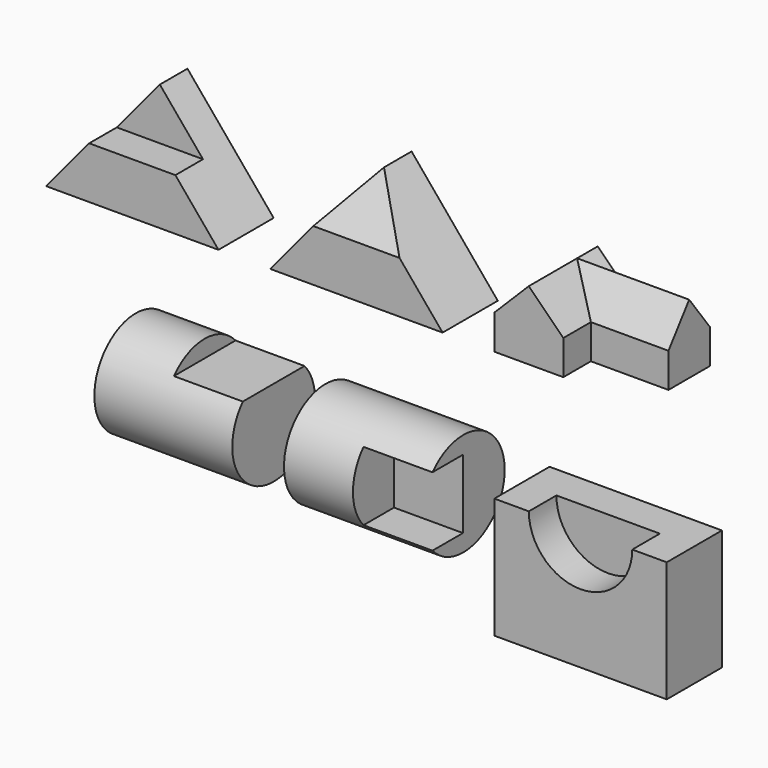
from build123d import *

# Parameters (mm, degrees)
F1_DEPTH  = 50.8
F2_DEPTH  = 50.8
F4_DEPTH  = 25.4
F6_DEPTH  = 101.6
F7_DEPTH  = 50.8
F8_DEPTH  = 25.4
F12_DEPTH = 63.5
F14_DEPTH = 127
F18_DEPTH = 165.1
F19_R     = 76.2
F20_DEPTH = 203.2
F22_DEPTH = 101.6
F24_R     = 76.2
F25_DEPTH = 203.2
F27_DEPTH = 101.6
F28_W     = 254
F28_H     = 177.8
F29_DEPTH = 101.6
F31_DEPTH = 50.8


with BuildPart() as f1:
    # F0 (on Front) → F1 (new body)
    with BuildSketch(Plane.XZ):
        Polygon((-254, 0), (0, 0), (-63.5, 76.2), (-127, 76.2), (-190.5, 76.2), align=None)
    extrude(amount=F1_DEPTH)

    # F0 (on Front) → F2 (join)
    with BuildSketch(Plane.XZ):
        Polygon((-254, 0), (0, 0), (-63.5, 76.2), (-127, 76.2), (-190.5, 76.2), align=None)
        Polygon((-127, 76.2), (-63.5, 76.2), (-127, 152.4), (-190.5, 76.2), align=None)
    extrude(amount=F2_DEPTH)

    # F3 (on face) → F4 (cut)
    with BuildSketch(Plane.XZ.offset(50.8)):
        Polygon((-190.5, 76.2), (-127, 76.2), (-63.5, 76.2), (-127, 152.4), align=None)
    extrude(amount=-F4_DEPTH, mode=Mode.SUBTRACT)

    # F7 (add): a face of the model
    f7_faces = [f1.faces().sort_by_distance(p)[0] for p in [
        (-127, -50.8, 33.8666666667),
    ]]
    extrude(f7_faces, amount=F7_DEPTH)

    # F8 (add): a face of the model
    f8_faces = [f1.faces().sort_by_distance(p)[0] for p in [
        (-127, -25.4, 101.6),
    ]]
    extrude(f8_faces, amount=F8_DEPTH)


with BuildPart() as f6:
    # F5 (on Front) → F6 (new body)
    with BuildSketch(Plane.XZ):
        Polygon((203.2, 152.4), (76.2, 0), (330.2, 0), align=None)
    extrude(amount=F6_DEPTH)

    # F11 (on 3pt) → F12 (cut, symmetric)
    with BuildSketch(Plane(origin=(203.2, 0, 0), x_dir=(0, -1, 0), z_dir=(-1, 0, 0))):
        Polygon((101.6, 76.2), (101.6, 152.4), (50.8, 152.4), align=None)
    extrude(amount=F12_DEPTH, both=True, mode=Mode.SUBTRACT)


with BuildPart() as f14:
    # F13 (on face) → F14 (new body)
    with BuildSketch(Plane.XZ.offset(101.6)):
        Polygon((406.4, 50.8), (406.4, 0), (508, 0), (508, 50.8), (457.2, 101.6), align=None)
    extrude(amount=-F14_DEPTH)

    # F17 (on 3pt) → F18 (join)
    with BuildSketch(Plane.YZ.offset(457.2)):
        Polygon((-50.8, 0), (25.4, 0), (25.4, 50.8), (-12.7, 101.6), (-50.8, 50.8), align=None)
    extrude(amount=F18_DEPTH)


with BuildPart() as f20:
    # F19 (on Right) → F20 (new body)
    with BuildSketch(Plane.YZ):
        with Locations((0, -265.8211804291)):
            Circle(F19_R)
    extrude(amount=-F20_DEPTH)

    # F21 (on face) → F22 (cut)
    with BuildSketch(Plane.YZ):
        with BuildLine():
            ThreePointArc((56.7961266285, -215.0211804291), (0, -189.6211804291), (-56.7961266285, -215.0211804291))
            Line((-56.7961266285, -215.0211804291), (56.7961266285, -215.0211804291))
        make_face()
    extrude(amount=-F22_DEPTH, mode=Mode.SUBTRACT)


with BuildPart() as f25:
    # F24 (on offset) → F25 (new body)
    with BuildSketch(Plane.YZ.offset(76.2)):
        with Locations((0, -266.7)):
            Circle(F24_R)
    extrude(amount=F25_DEPTH)

    # F26 (on face) → F27 (cut)
    with BuildSketch(Plane.YZ.offset(279.4)):
        with BuildLine():
            Line((-0.6973790218, -317.5), (-0.6973790218, -215.9))
            Line((-0.6973790218, -215.9), (-56.7961266285, -215.9))
            ThreePointArc((-56.7961266285, -215.9), (-76.2, -266.7), (-56.7961266285, -317.5))
            Line((-56.7961266285, -317.5), (-0.6973790218, -317.5))
        make_face()
    extrude(amount=-F27_DEPTH, mode=Mode.SUBTRACT)


with BuildPart() as f29:
    # F28 (on face) → F29 (new body)
    with BuildSketch(Plane.XZ.offset(101.6)):
        with Locations((533.4, -279.4)):
            Rectangle(F28_W, F28_H)
    extrude(amount=-F29_DEPTH)

    # F30 (on face) → F31 (cut)
    with BuildSketch(Plane.XZ.offset(101.6)):
        with BuildLine():
            Line((609.6, -190.5), (457.2, -190.5))
            ThreePointArc((457.2, -190.5), (533.4, -266.7), (609.6, -190.5))
        make_face()
    extrude(amount=-F31_DEPTH, mode=Mode.SUBTRACT)


solid = Compound([f1.part, f6.part, f14.part, f20.part, f25.part, f29.part])
